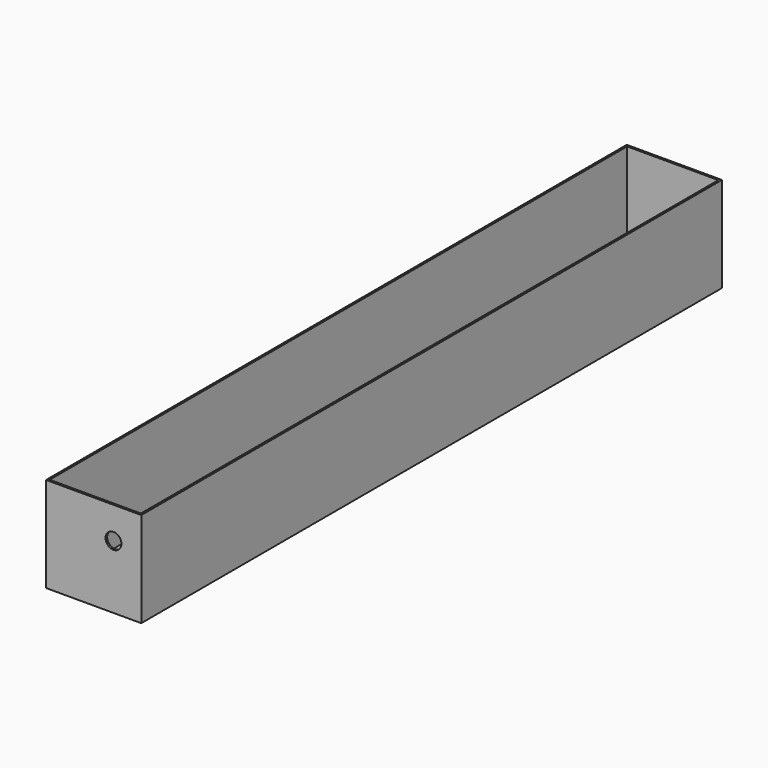
from build123d import *

# Parameters (mm, degrees)
F0_W     = 152.4
F0_H     = 152.4
F1_DEPTH = 1162.05
F2_T     = -3.175
F3_R     = 25.40254
F4_DEPTH = 3.176
F5_R     = 12.7
F6_DEPTH = 1162.051


with BuildPart() as f1:
    # F0 (on Front) → F1 (new body)
    with BuildSketch(Plane.XZ):
        with Locations((-76.2, 76.2)):
            Rectangle(F0_W, F0_H)
    extrude(amount=F1_DEPTH)

    # F2
    f2_openings = [f1.faces().sort_by_distance(p)[0] for p in [
        (-76.2, -581.025, 152.4),
    ]]
    offset(amount=F2_T, openings=f2_openings)

    # F3 (on face) → F4 (cut, through all)
    with BuildSketch(Plane.XY.offset(3.175)):
        with Locations((-74.6125, -579.4375)):
            Circle(F3_R)
    extrude(amount=-F4_DEPTH, mode=Mode.SUBTRACT)

    # F5 (on face) → F6 (cut, through all)
    with BuildSketch(Plane.XZ.offset(1162.05)):
        with Locations((-44.45, 101.6)):
            Circle(F5_R)
    extrude(amount=-F6_DEPTH, mode=Mode.SUBTRACT)


solid = f1.part
